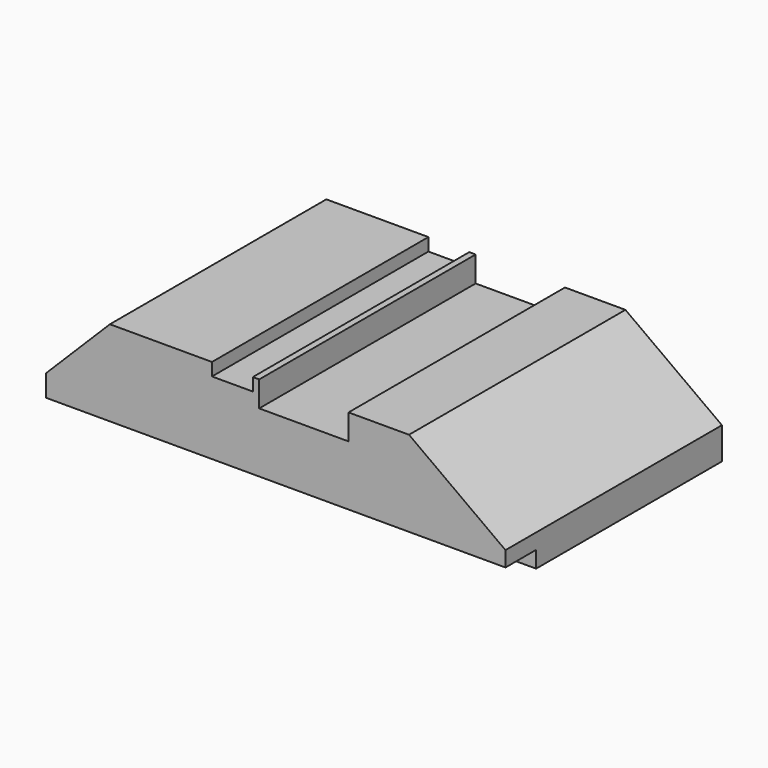
from build123d import *

# Parameters (mm, degrees)
F1_DEPTH = 134.62
F2_W     = 19.05
F2_H     = 8.255
F3_DEPTH = 228.6


with BuildPart() as f1:
    # F0 (on Front) → F1 (new body)
    with BuildSketch(Plane.XZ):
        Polygon((-114.3, -25.4), (114.3, -25.4), (114.3, -9.525), (66.294, 25.4), (36.197161, 25.4), (36.197161, 12.7), (-8.255, 12.7), (-8.255, 25.4), (-11.43, 25.4), (-11.43, 19.05), (-31.75, 19.05), (-31.75, 25.4), (-82.55, 25.4), (-114.3, -6.35), align=None)
    extrude(amount=F1_DEPTH)

    # F2 (on face) → F3 (cut)
    with BuildSketch(Plane.YZ.offset(114.3)):
        with Locations((-125.095, -21.2725)):
            Rectangle(F2_W, F2_H)
    extrude(amount=-F3_DEPTH, mode=Mode.SUBTRACT)


solid = f1.part
